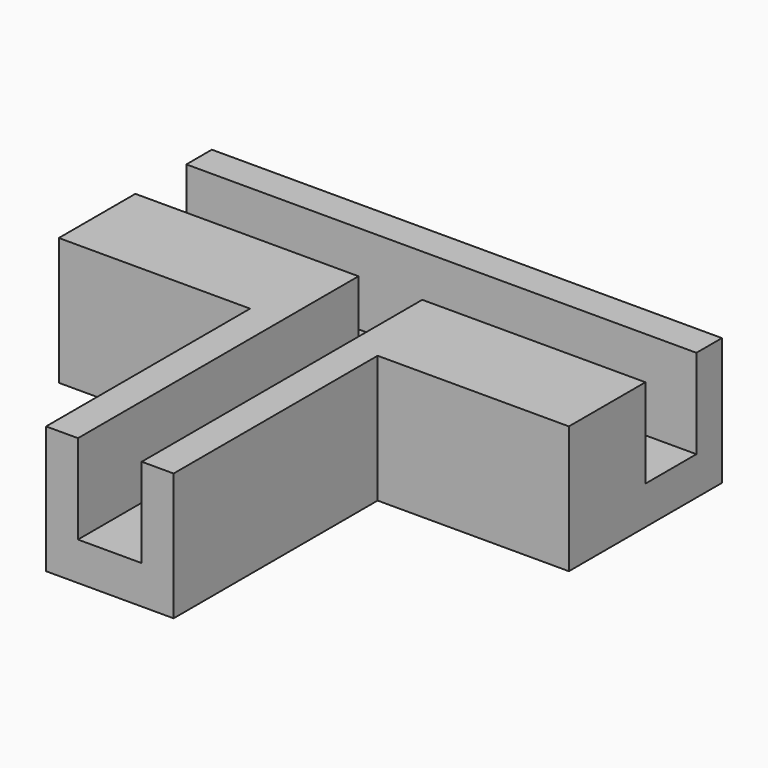
from build123d import *

# Parameters (mm, degrees)
F0_W     = 25.4
F0_H     = 50.8
F0_W_2   = 38.1
F0_H_2   = 38.1
F1_DEPTH = 25.4
F2_W     = 12.7
F2_H     = 19.05
F2_H_2   = 50.8
F3_DEPTH = 17.78


with BuildPart() as f1:
    # F0 (on Top) → F1 (new body)
    with BuildSketch(Plane.XY):
        with Locations((12.7, 25.4)):
            Rectangle(F0_W, F0_H)
        with Locations((44.45, 69.85)):
            Rectangle(F0_W_2, F0_H_2)
        with Locations((12.7, 69.85)):
            Rectangle(F0_W, F0_H_2)
        with Locations((-19.05, 69.85)):
            Rectangle(F0_W_2, F0_H_2)
    extrude(amount=F1_DEPTH)

    # F2 (on face) → F3 (cut)
    with BuildSketch(Plane.XY.offset(25.4)):
        Polygon((-38.1, 69.85), (6.35, 69.85), (19.05, 69.85), (63.5, 69.85), (63.5, 82.55), (-38.1, 82.55), align=None)
        with Locations((12.7, 60.325)):
            Rectangle(F2_W, F2_H)
        with Locations((12.7, 25.4)):
            Rectangle(F2_W, F2_H_2)
    extrude(amount=-F3_DEPTH, mode=Mode.SUBTRACT)


solid = f1.part
